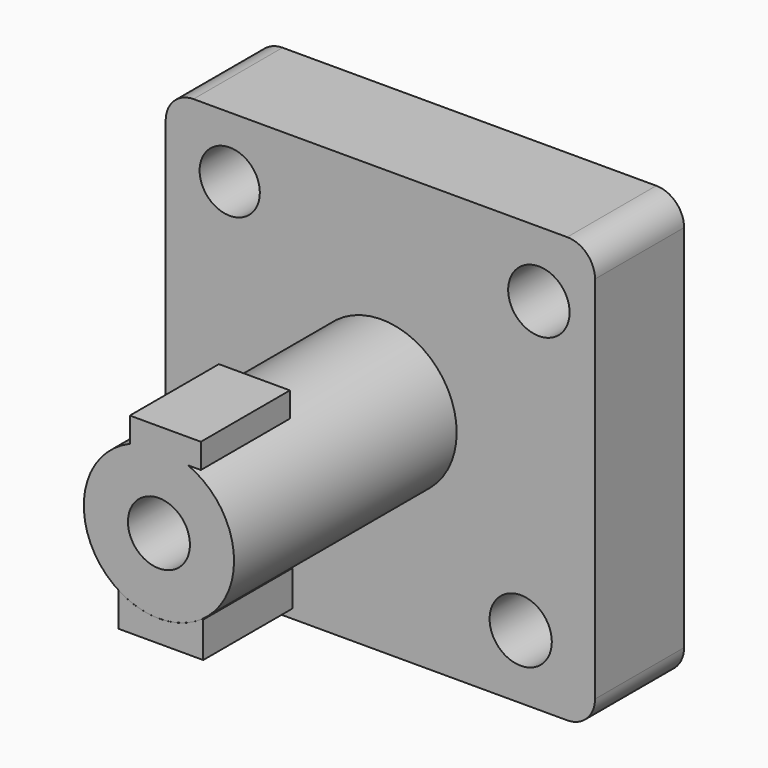
from build123d import *

# Parameters (mm, degrees)
F0_R         = 7.5399052203
F0_R_2       = 7.1012789698
F0_R_3       = 6.8711271947
F0_R_4       = 7.0071962971
F1_DEPTH     = 12.7
F2_R         = 17.146018536
F2_R_2       = 7.0742640009
F3_DEPTH     = 63.5
F5_W         = 16.9617831707
F5_H         = 33.7431207299
F5_R         = 4.6042822581
F5_R_2       = 4.72658434
F6_DEPTH     = 5.08
F3_FACE1_R   = 7.5399052203
F3_FACE1_R_2 = 7.1012789698
F3_FACE1_R_3 = 6.8711271947
F3_FACE1_R_4 = 17.146018536
F3_FACE1_R_5 = 7.0071962971
F8_DEPTH     = 25.399999693
F11_DEPTH    = 25.399999693


with BuildPart() as f1:
    # F0 (on Front) → F1 (new body)
    with BuildSketch(Plane.XZ):
        with BuildLine():
            Line((42.3700170755, 47.4568530917), (-42.9113464594, 47.4568530917))
            ThreePointArc((-42.9113464594, 47.4568530917), (-47.4014745199, 45.5969811523), (-49.2613464594, 41.1068530917))
            Line((-49.2613464594, 41.1068530917), (-49.2613464594, -43.272297287))
            ThreePointArc((-49.2613464594, -43.272297287), (-47.4014745199, -47.7624253475), (-42.9113464594, -49.622297287))
            Line((-42.9113464594, -49.622297287), (42.3700170755, -49.622297287))
            ThreePointArc((42.3700170755, -49.622297287), (46.8601451361, -47.7624253475), (48.7200170755, -43.272297287))
            Line((48.7200170755, -43.272297287), (48.7200170755, 41.1068530917))
            ThreePointArc((48.7200170755, 41.1068530917), (46.8601451361, 45.5969811523), (42.3700170755, 47.4568530917))
        make_face()
        with Locations((-36.088898778, -34.4649553299)):
            Circle(F0_R, mode=Mode.SUBTRACT)
        with Locations((31.7582339048, -35.0062847137)):
            Circle(F0_R_2, mode=Mode.SUBTRACT)
        with Locations((-34.6453487873, 33.562630415)):
            Circle(F0_R_3, mode=Mode.SUBTRACT)
        with Locations((35.9084606171, 32.4799567461)):
            Circle(F0_R_4, mode=Mode.SUBTRACT)
    extrude(amount=F1_DEPTH)

    # F2 (on face) → F3 (join)
    with BuildSketch(Plane.XZ.offset(12.7)):
        Circle(F2_R)
        Circle(F2_R_2, mode=Mode.SUBTRACT)
    extrude(amount=F3_DEPTH)

    # F3_face1 (on face) + F7 (on face) → F8 (join)
    with BuildSketch(Plane(origin=(-0.1960246681, -12.7, -1.0801262711), x_dir=(1, 0, 0), z_dir=(0, -1, 0))):
        with BuildLine():
            Line((42.5660417436, 48.5369793628), (-42.7153217913, 48.5369793628))
            ThreePointArc((-42.7153217913, 48.5369793628), (-47.2054498519, 46.6771074234), (-49.0653217913, 42.1869793628))
            Line((-49.0653217913, 42.1869793628), (-49.0653217913, -42.1921710159))
            ThreePointArc((-49.0653217913, -42.1921710159), (-47.2054498519, -46.6822990764), (-42.7153217913, -48.5421710159))
            Line((-42.7153217913, -48.5421710159), (42.5660417436, -48.5421710159))
            ThreePointArc((42.5660417436, -48.5421710159), (47.0561698041, -46.6822990764), (48.9160417436, -42.1921710159))
            Line((48.9160417436, -42.1921710159), (48.9160417436, 42.1869793628))
            ThreePointArc((48.9160417436, 42.1869793628), (47.0561698041, 46.6771074234), (42.5660417436, 48.5369793628))
        make_face()
        with Locations((-35.8928741099, -33.3848290588)):
            Circle(F3_FACE1_R, mode=Mode.SUBTRACT)
        with Locations((31.9542585729, -33.9261584426)):
            Circle(F3_FACE1_R_2, mode=Mode.SUBTRACT)
        with Locations((-34.4493241193, 34.6427566861)):
            Circle(F3_FACE1_R_3, mode=Mode.SUBTRACT)
        with Locations((0.1960246681, 1.0801262711)):
            Circle(F3_FACE1_R_4, mode=Mode.SUBTRACT)
        with Locations((36.1044852851, 33.5600830172)):
            Circle(F3_FACE1_R_5, mode=Mode.SUBTRACT)
    with BuildSketch(Plane.XZ.offset(76.2)):
        with BuildLine():
            Line((-6.6351802151, 21.4874055237), (-6.6351802151, 15.8101339385))
            ThreePointArc((-6.6351802151, 15.8101339385), (0, 17.146018536), (6.6351802151, 15.8101339385))
            Line((6.6351802151, 15.8101339385), (9.570017457, 15.8101339385))
            Line((9.570017457, 15.8101339385), (9.570017457, 21.4874055237))
            Line((9.570017457, 21.4874055237), (-6.6351802151, 21.4874055237))
        make_face()
    extrude(amount=-F8_DEPTH)


with BuildPart() as f6:
    # F5 (on offset) → F6 (new body)
    with BuildSketch(Plane(origin=(0, 0, -17.872297287), x_dir=(1, 0, 0), z_dir=(0, 0, -1))):
        with Locations((1.4435499907, 59.6369020641)):
            Rectangle(F5_W, F5_H)
        with Locations((1.4435499907, 50.5322441459)):
            Circle(F5_R, mode=Mode.SUBTRACT)
        with Locations((1.4435499907, 68.0471807718)):
            Circle(F5_R_2, mode=Mode.SUBTRACT)
    extrude(amount=F6_DEPTH)


with BuildPart() as f11:
    # F10 (on face) → F11 (new body)
    with BuildSketch(Plane.XZ.offset(76.2)):
        with BuildLine():
            Line((10.1048946381, -14.0747278929), (9.7922411316, -14.0747278929))
            ThreePointArc((9.7922411316, -14.0747278929), (0.3540969939, -17.1423617672), (-9.2026740313, -14.4670917019))
            Line((-9.2026740313, -14.4670917019), (-9.2026740313, -22.1947282553))
            Line((-9.2026740313, -22.1947282553), (10.1048946381, -22.1947282553))
            Line((10.1048946381, -22.1947282553), (10.1048946381, -14.0747278929))
        make_face()
    extrude(amount=-F11_DEPTH)


solid = Compound([f1.part, f11.part])
